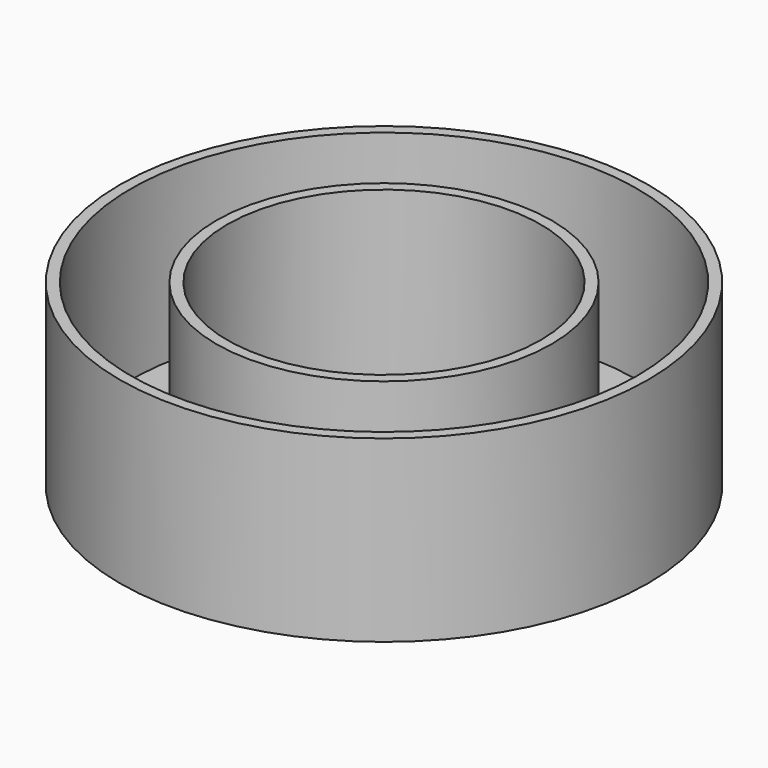
from build123d import *

# Parameters (mm, degrees)
F0_R     = 24.165
F0_R_2   = 14.335
F1_DEPTH = 0.1
F2_DEPTH = 16.29
F3_T     = -1


with BuildPart() as f1:
    # F0 (on Top) → F1 (new body)
    with BuildSketch(Plane.XY):
        Circle(F0_R)
        Circle(F0_R_2, mode=Mode.SUBTRACT)
    extrude(amount=F1_DEPTH)

    # F2 (add): a face of the model
    f2_faces = [f1.faces().sort_by_distance(p)[0] for p in [
        (-23.4815105853, 0, 0.1),
    ]]
    extrude(f2_faces, amount=F2_DEPTH)

    # F3
    f3_openings = [f1.faces().sort_by_distance(p)[0] for p in [
        (-23.481511, 0, 16.39),
    ]]
    offset(amount=F3_T, openings=f3_openings)


solid = f1.part
